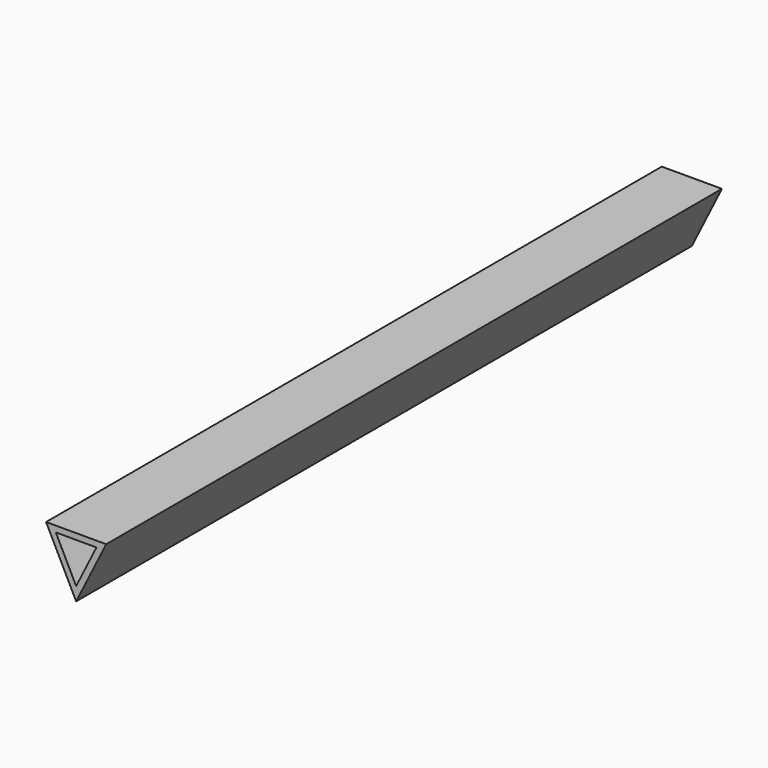
from build123d import *

# Parameters (mm, degrees)
F1_DEPTH = 1
F2_DEPTH = 128


with BuildPart() as f1:
    # F0 (on Front) → F1 (new body)
    with BuildSketch(Plane.XZ):
        Polygon((5, -1), (1.618034, -1), (5, -7.763932), (8.381966, -1), align=None)
    extrude(amount=F1_DEPTH)

    # F0 (on Front) → F2 (join)
    with BuildSketch(Plane.XZ):
        Polygon((5, 0), (0, 0), (5, -10), (10, 0), align=None)
        Polygon((5, -7.763932), (1.618034, -1), (5, -1), (8.381966, -1), align=None, mode=Mode.SUBTRACT)
    extrude(amount=F2_DEPTH)


solid = f1.part
